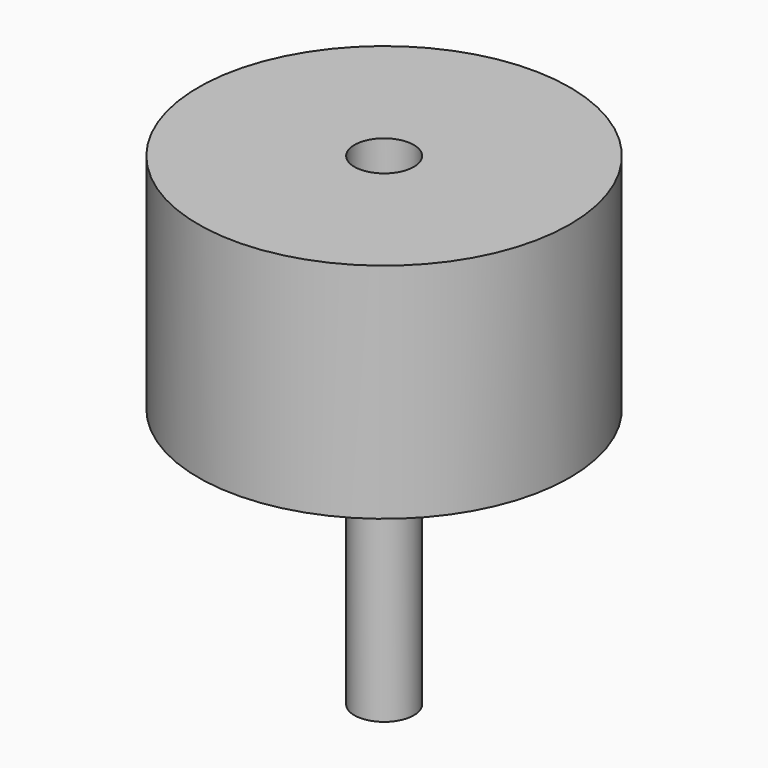
from build123d import *

# Parameters (mm, degrees)
F0_R     = 2
F1_DEPTH = 25
F2_R     = 12.5
F2_R_2   = 2
F3_DEPTH = 7.5


with BuildPart() as f1:
    # F0 (on Top) → F1 (new body)
    with BuildSketch(Plane.XY):
        Circle(F0_R)
    extrude(amount=F1_DEPTH)

    # F2 (on face) → F3 (join, symmetric)
    with BuildSketch(Plane.XY.offset(25)):
        Circle(F2_R)
        Circle(F2_R_2, mode=Mode.SUBTRACT)
    extrude(amount=F3_DEPTH, both=True)


solid = f1.part
